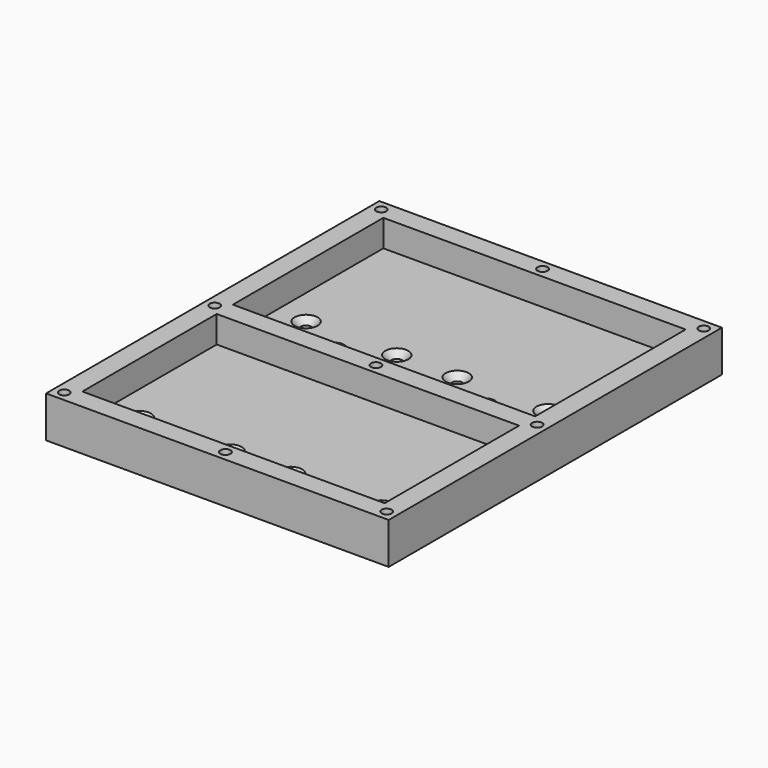
from build123d import *

# Parameters (mm, degrees)
F0_W           = 102
F0_H           = 124
F1_DEPTH       = 4.318
F2_W           = 102
F2_H           = 124
F2_W_2         = 90
F2_H_2         = 6
F3_DEPTH       = 8
F4_D           = 3.175
F4_CSINK_D     = 6.858
F4_CSINK_ANGLE = 90
F5_D           = 5
F7_D           = 3


with BuildPart() as f1:
    # F0 (on Top) → F1 (new body)
    with BuildSketch(Plane.XY):
        Rectangle(F0_W, F0_H)
    extrude(amount=F1_DEPTH)

    # F2 (on face) → F3 (join)
    with BuildSketch(Plane.XY.offset(4.318)):
        Rectangle(F2_W, F2_H)
        Polygon((-45, 56), (45, 56), (45, 29), (45, 0), (45, -6), (45, -33), (45, -56), (-45, -56), (-45, -33), (-45, -6), (-45, 0), (-45, 29), align=None, mode=Mode.SUBTRACT)
        with Locations((0, -3)):
            Rectangle(F2_W_2, F2_H_2)
    extrude(amount=F3_DEPTH)

    # F4 (through all)
    with Locations(Plane.XY.offset(4.318)):
        with Locations((-36, 16), (-9, 16), (9, 16), (36, 16), (9, -46), (36, -46), (-9, -46), (-36, -46)):
            CounterSinkHole(F4_D / 2, F4_CSINK_D / 2, counter_sink_angle=F4_CSINK_ANGLE)

    # F5 (through all)
    with Locations(Plane.XY.offset(4.318)):
        with Locations((-22.5, 10), (22.5, 10), (22.5, -52), (-22.5, -52)):
            Hole(F5_D / 2)

    # F7 (through all)
    with Locations(Plane.XY.offset(12.318)):
        with Locations((-48, 59), (0, 59), (48, 59), (-48, -3), (48, -3), (-48, -59), (0, -59), (48, -59), (0, -3)):
            Hole(F7_D / 2)


solid = f1.part
